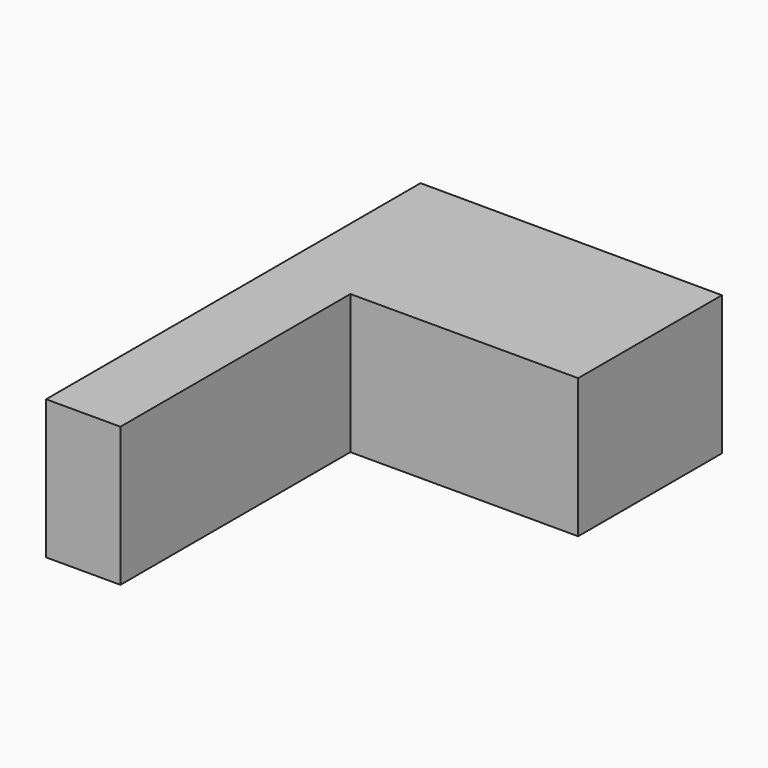
from build123d import *

# Parameters (mm, degrees)
F1_DEPTH = 26.924
F2_W     = 33.183874
F2_H     = 15.670162
F3_DEPTH = 10.922


with BuildPart() as f1:
    # F0 (on Top) → F1 (new body)
    with BuildSketch(Plane.XY):
        Polygon((28.298469, 34.750886), (-30.142017, 34.935243), (-30.142017, -55.582985), (-15.762338, -55.582985), (-15.762338, 0), (28.298469, 0), align=None)
    extrude(amount=F1_DEPTH)

    # F2 (on face) → F3 (join)
    with BuildSketch(Plane.XY.offset(26.924)):
        with Locations((2.304436, 16.223226)):
            Rectangle(F2_W, F2_H)
    extrude(amount=-F3_DEPTH)


solid = f1.part
